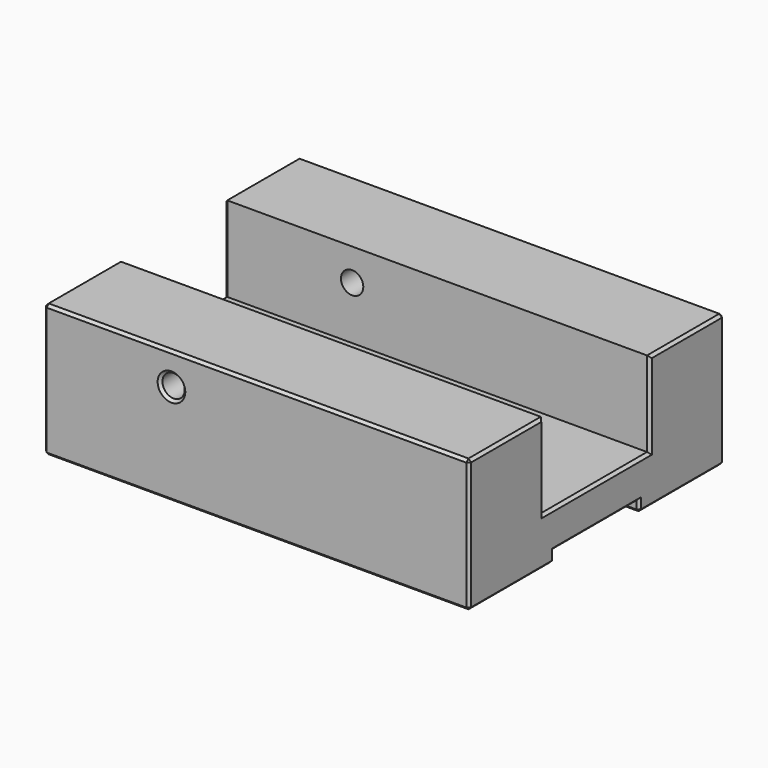
from build123d import *

# Parameters (mm, degrees)
F0_W     = 80
F0_H     = 60
F1_DEPTH = 25
F3_DEPTH = 2
F4_W     = 80
F4_H     = 25
F5_DEPTH = 16
F6_R     = 4
F7_DEPTH = 4
F9_D     = 4.2
F10_SIZE = 0.5


with BuildPart() as f1:
    # F0 (on Top) → F1 (new body)
    with BuildSketch(Plane.XY):
        Rectangle(F0_W, F0_H)
    extrude(amount=F1_DEPTH)

    # F2 (on face) → F3 (cut)
    with BuildSketch(Plane(origin=(0, 0, 0), x_dir=(1, 0, 0), z_dir=(0, 0, -1))):
        Polygon((30, 10), (30, 20), (-30, 20), (-30, 10), (-40, 10), (-40, -10), (-30, -10), (-30, -20), (30, -20), (30, -10), (40, -10), (40, 10), align=None)
    extrude(amount=-F3_DEPTH, mode=Mode.SUBTRACT)

    # F4 (on face) → F5 (cut)
    with BuildSketch(Plane.XY.offset(25)):
        Rectangle(F4_W, F4_H)
    extrude(amount=-F5_DEPTH, mode=Mode.SUBTRACT)

    # F6 (on face) → F7 (cut)
    with BuildSketch(Plane.XY.offset(9)):
        with Locations((-32, 0)):
            Circle(F6_R)
    extrude(amount=-F7_DEPTH, mode=Mode.SUBTRACT)

    # F9 (through all)
    with Locations(Plane.XZ.offset(30)):
        with Locations((-16, 19)):
            Hole(F9_D / 2)

    # F10
    f10_edges = [f1.edges().sort_by_distance(p)[0] for p in [
        (35, 10, 0),
        (30, 15, 0),
        (0, 20, 0),
        (-30, 15, 0),
        (-35, 10, 0),
        (-40, 20, 0),
        (0, 30, 0),
        (40, 20, 0),
        (0, -30, 0),
        (-40, -20, 0),
        (-35, -10, 0),
        (-30, -15, 0),
        (0, -20, 0),
        (30, -15, 0),
        (35, -10, 0),
        (40, -20, 0),
        (-40, 10, 1),
        (-40, 0, 2),
        (-40, -10, 1),
        (-40, -30, 12.5),
        (-40, -21.25, 25),
        (-40, -12.5, 17),
        (-40, 0, 9),
        (-40, 12.5, 17),
        (-40, 21.25, 25),
        (-40, 30, 12.5),
        (0, -30, 25),
        (40, -30, 12.5),
        (-18.1, -30, 19),
        (40, -10, 1),
        (40, 0, 2),
        (40, 10, 1),
        (40, 30, 12.5),
        (40, 21.25, 25),
        (40, 12.5, 17),
        (40, 0, 9),
        (40, -12.5, 17),
        (40, -21.25, 25),
        (0, 30, 25),
        (-18.1, 30, 19),
    ]]
    chamfer(f10_edges, length=F10_SIZE)


solid = f1.part
